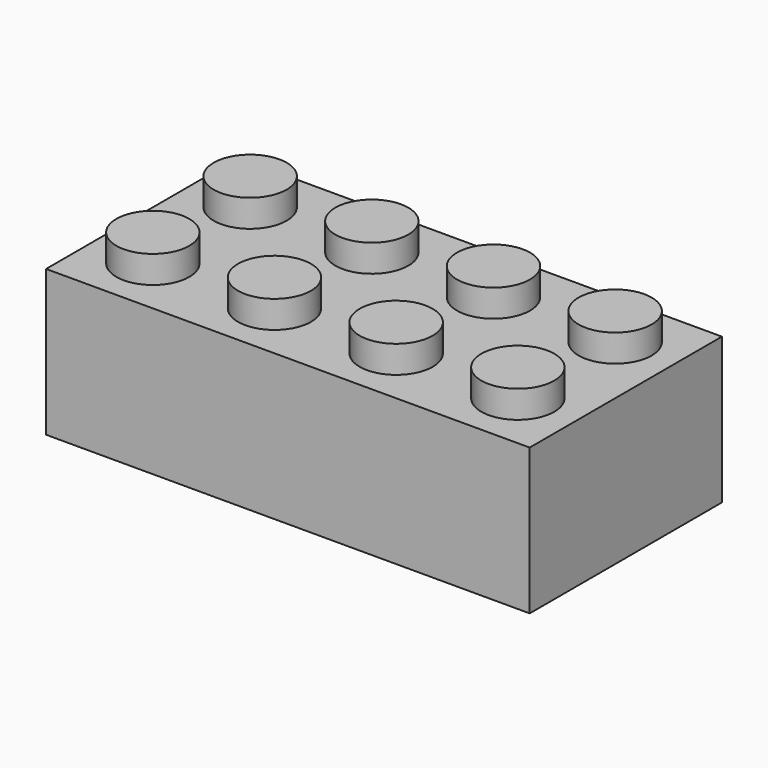
from build123d import *

# Parameters (mm, degrees)
F0_W     = 807.72
F0_H     = 401.32
F1_DEPTH = 243.84
F2_R     = 60.96
F3_DEPTH = 45.72
F4_W     = 746.76
F4_H     = 340.36
F5_DEPTH = 213.36
F6_R     = 82.55
F6_R_2   = 60.96
F7_DEPTH = 213.36


with BuildPart() as f1:
    # F0 (on Top) → F1 (new body)
    with BuildSketch(Plane.XY):
        with Locations((-3.687097, -55.387976)):
            Rectangle(F0_W, F0_H)
    extrude(amount=F1_DEPTH)

    # F2 (on face) → F3 (join)
    with BuildSketch(Plane.XY.offset(243.84)):
        with Locations((301.112903, -156.987976)):
            Circle(F2_R)
        with Locations((301.112903, 46.212024)):
            Circle(F2_R)
        with Locations((97.912903, 46.212024)):
            Circle(F2_R)
        with Locations((97.912903, -156.987976)):
            Circle(F2_R)
        with Locations((-105.287097, -156.987976)):
            Circle(F2_R)
        with Locations((-105.287097, 46.212024)):
            Circle(F2_R)
        with Locations((-308.487097, 46.212024)):
            Circle(F2_R)
        with Locations((-308.487097, -156.987976)):
            Circle(F2_R)
    extrude(amount=F3_DEPTH)

    # F4 (on face) → F5 (cut)
    with BuildSketch(Plane(origin=(0, 0, 0), x_dir=(1, 0, 0), z_dir=(0, 0, -1))):
        with Locations((-3.687097, 55.387976)):
            Rectangle(F4_W, F4_H)
    extrude(amount=-F5_DEPTH, mode=Mode.SUBTRACT)

    # F6 (on face) → F7 (join)
    with BuildSketch(Plane(origin=(0, 0, 213.36), x_dir=(1, 0, 0), z_dir=(0, 0, -1))):
        with Locations((-206.887097, 55.387976)):
            Circle(F6_R)
        with Locations((-206.887097, 55.387976)):
            Circle(F6_R_2, mode=Mode.SUBTRACT)
        with Locations((-3.687097, 55.387976)):
            Circle(F6_R)
        with Locations((-3.687097, 55.387976)):
            Circle(F6_R_2, mode=Mode.SUBTRACT)
        with Locations((199.512903, 55.387976)):
            Circle(F6_R)
        with Locations((199.512903, 55.387976)):
            Circle(F6_R_2, mode=Mode.SUBTRACT)
    extrude(amount=F7_DEPTH)


solid = f1.part
